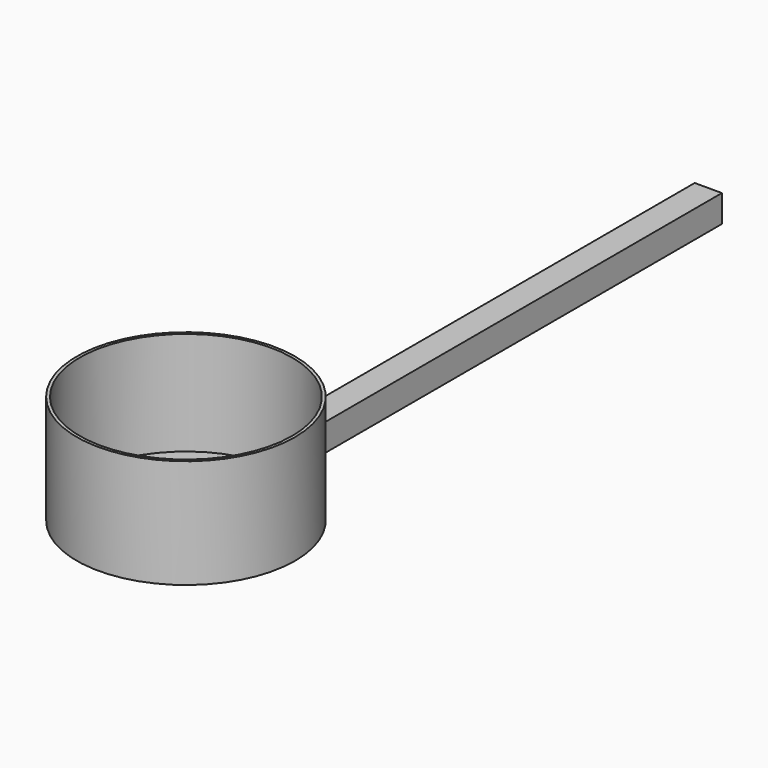
from build123d import *

# Parameters (mm, degrees)
F1_DEPTH = 1
F2_DEPTH = 5
F3_R     = 20.05
F3_R_2   = 19.5
F4_DEPTH = 19


with BuildPart() as f1:
    # F0 (on Top) → F1 (new body)
    with BuildSketch(Plane.XY):
        with BuildLine():
            ThreePointArc((-2.50625, 19.8927426701), (-13.2618284467, -15.0375), (20.05, 0))
            ThreePointArc((20.05, 0), (15.0333327559, 13.2665521614), (2.49375, 19.8943135327))
            ThreePointArc((2.49375, 19.8943135327), (-0.0062991589, 20.0499990105), (-2.50625, 19.8927426701))
        make_face()
    extrude(amount=F1_DEPTH)

    # F0 (on Top) → F2 (join)
    with BuildSketch(Plane.XY):
        with BuildLine():
            ThreePointArc((-2.50625, 19.8927426701), (-0.0062991589, 20.0499990105), (2.49375, 19.8943135327))
            Line((2.49375, 19.8943135327), (2.49375, 119.8927426701))
            Line((2.49375, 119.8927426701), (-2.50625, 119.8927426701))
            Line((-2.50625, 119.8927426701), (-2.50625, 19.8927426701))
        make_face()
    extrude(amount=F2_DEPTH)

    # F3 (on face) → F4 (join)
    with BuildSketch(Plane.XY.offset(1)):
        Circle(F3_R)
        Circle(F3_R_2, mode=Mode.SUBTRACT)
    extrude(amount=F4_DEPTH)


solid = f1.part
